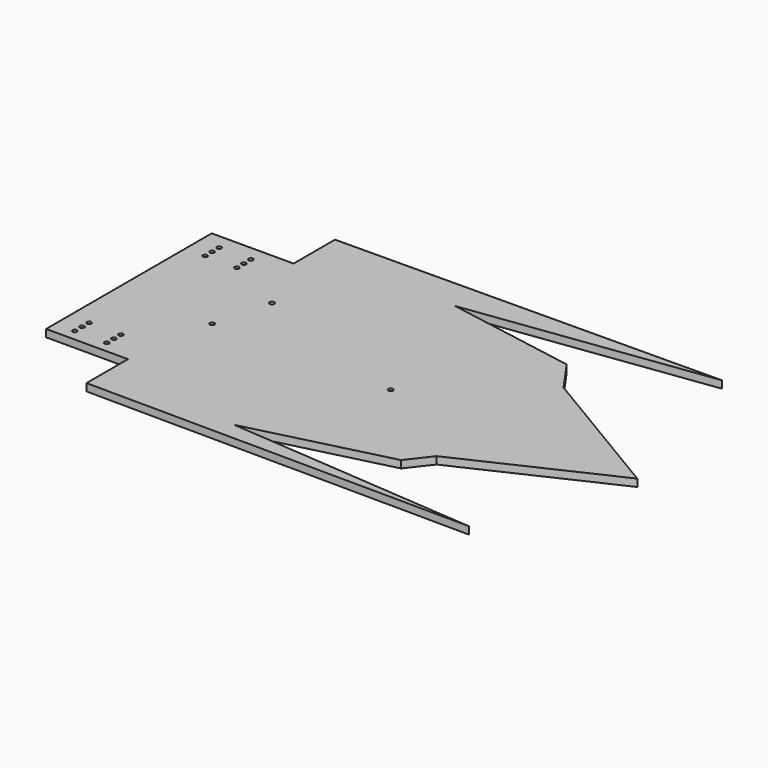
from build123d import *

# Parameters (mm, degrees)
F0_R     = 1.5
F0_R_2   = 1.6
F1_DEPTH = 5


with BuildPart() as f1:
    # F0 (on Top) → F1 (new body)
    with BuildSketch(Plane.XY):
        Polygon((-73.227084, -28.367156), (-128.558272, -28.367156), (-128.558272, -99.733248), (-128.558272, -168.367156), (-73.228972, -168.367156), (111.441728, -168.367156), (111.441728, -28.367156), align=None)
        with Locations((-115.227084, -160.695037)):
            Circle(F0_R, mode=Mode.SUBTRACT)
        with Locations((-115.193536, -154.695131)):
            Circle(F0_R, mode=Mode.SUBTRACT)
        with Locations((-93.727084, -160.695037)):
            Circle(F0_R, mode=Mode.SUBTRACT)
        with Locations((-93.693536, -154.695131)):
            Circle(F0_R, mode=Mode.SUBTRACT)
        with Locations((-115.159988, -148.695225)):
            Circle(F0_R, mode=Mode.SUBTRACT)
        with Locations((-93.659988, -148.695225)):
            Circle(F0_R, mode=Mode.SUBTRACT)
        with Locations((-63.730145, -109.048034)):
            Circle(F0_R_2, mode=Mode.SUBTRACT)
        with Locations((-115.159988, -50.771272)):
            Circle(F0_R, mode=Mode.SUBTRACT)
        with Locations((-115.193536, -44.771366)):
            Circle(F0_R, mode=Mode.SUBTRACT)
        with Locations((-93.659988, -50.771272)):
            Circle(F0_R, mode=Mode.SUBTRACT)
        with Locations((-93.693536, -44.771366)):
            Circle(F0_R, mode=Mode.SUBTRACT)
        with Locations((-53.912444, -70.72065)):
            Circle(F0_R_2, mode=Mode.SUBTRACT)
        with Locations((-115.227084, -38.771459)):
            Circle(F0_R, mode=Mode.SUBTRACT)
        with Locations((-93.727084, -38.771459)):
            Circle(F0_R, mode=Mode.SUBTRACT)
        with Locations((56.943949, -109.048031)):
            Circle(F0_R_2, mode=Mode.SUBTRACT)
        Polygon((17.532653, -191.937276), (111.441728, -168.367156), (-73.228972, -168.367156), (-73.228972, -203.367156), (186.765473, -205.066817), align=None)
        Polygon((222.092137, -107.003248), (126.681142, -50.065381), (163.168674, -102.01716), (123.302169, -153.153804), align=None)
        Polygon((126.681142, -50.065381), (111.441728, -28.367156), (111.441728, -168.367156), (123.302169, -153.153804), (163.168674, -102.01716), align=None)
        Polygon((-73.22655, 6.632844), (-73.227084, -28.367156), (111.441728, -28.367156), (23.589545, -12.982339), (186.765473, 8.669585), align=None)
    extrude(amount=F1_DEPTH)


solid = f1.part
